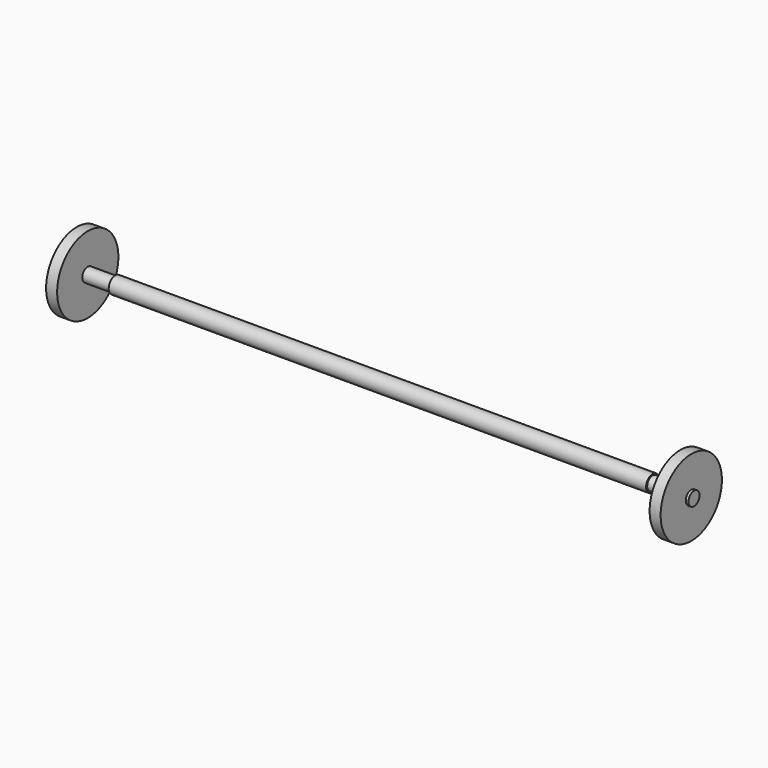
from build123d import *

# Parameters (mm, degrees)
F0_R       = 3
F1_DEPTH   = 195
F2_R       = 2.5
F1_FACE1_R = 3
F3_DEPTH   = 10
F4_R       = 2.5
F5_DEPTH   = 10
F6_R       = 13.9
F6_R_2     = 2.5
F7_DEPTH   = 4
F8_R       = 2.5
F9_DEPTH   = 5
F10_R      = 13.9
F10_R_2    = 2.5
F11_DEPTH  = 4
F12_R      = 2.5
F13_DEPTH  = 5


with BuildPart() as f1:
    # F0 (on Right) → F1 (new body)
    with BuildSketch(Plane.YZ):
        Circle(F0_R)
    extrude(amount=F1_DEPTH)

    # F2 (on face) + F1_face1 (on face) → F3 (join)
    with BuildSketch(Plane(origin=(0, 0, 0), x_dir=(0, -1, 0), z_dir=(-1, 0, 0))):
        Circle(F2_R)
    with BuildSketch(Plane.YZ.offset(195)):
        Circle(F1_FACE1_R)
    extrude(amount=F3_DEPTH, dir=(-1, 0, 0))

    # F4 (on face) → F5 (join)
    with BuildSketch(Plane.YZ.offset(195)):
        Circle(F4_R)
    extrude(amount=F5_DEPTH)


with BuildPart() as f7:
    # F6 (on face) → F7 (new body)
    with BuildSketch(Plane(origin=(-10, 0, 0), x_dir=(0, -1, 0), z_dir=(-1, 0, 0))):
        Circle(F6_R)
        Circle(F6_R_2, mode=Mode.SUBTRACT)
    extrude(amount=F7_DEPTH)


with BuildPart() as f9:
    # F8 (on face) → F9 (new body)
    with BuildSketch(Plane(origin=(-10, 0, 0), x_dir=(0, -1, 0), z_dir=(-1, 0, 0))):
        Circle(F8_R)
    extrude(amount=F9_DEPTH)


with BuildPart() as f11:
    # F10 (on face) → F11 (new body)
    with BuildSketch(Plane.YZ.offset(205)):
        Circle(F10_R)
        Circle(F10_R_2, mode=Mode.SUBTRACT)
    extrude(amount=F11_DEPTH)


with BuildPart() as f13:
    # F12 (on face) → F13 (new body)
    with BuildSketch(Plane.YZ.offset(205)):
        Circle(F12_R)
    extrude(amount=F13_DEPTH)


solid = Compound([f1.part, f7.part, f9.part, f11.part, f13.part])
